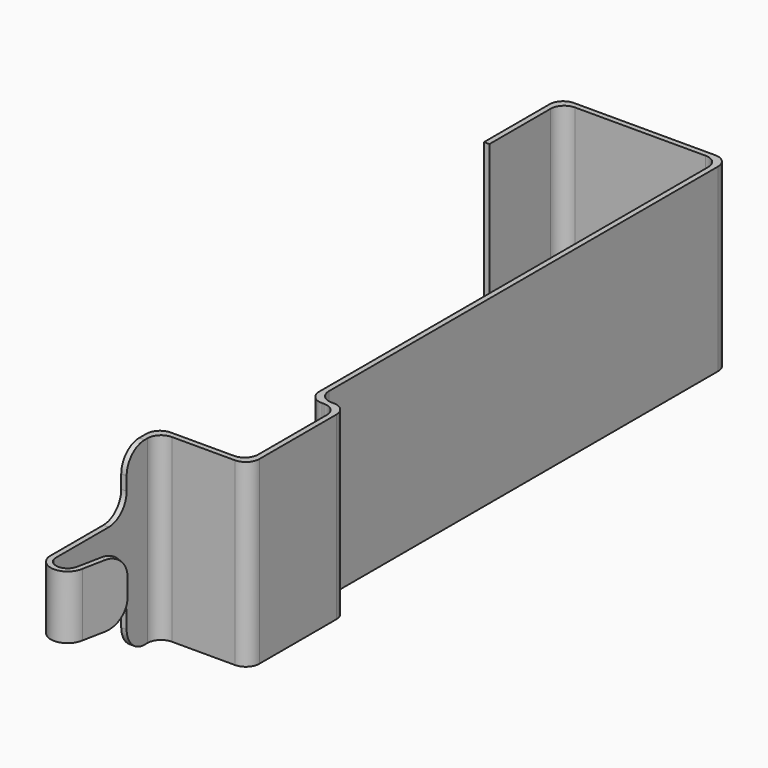
from build123d import *

# Parameters (mm, degrees)
PAD_DEPTH    = 40
PAD001_DEPTH = 7
FILLET_R     = 3
FILLET001_R  = 5


with BuildPart() as part:
    # Sketch → Pad (new body)
    with BuildSketch(Plane.XY):
        Polygon((-17.5, 114), (17.5, 114), (17.5, 0), (24, 0), (24, -25), (4, -25), (4, -35), (5.2, -35), (5.2, -26.2), (25.2, -26.2), (25.2, 1.2), (18.7, 1.2), (18.7, 115.2), (-18.7, 115.2), (-18.7, 94), (-17.5, 94), align=None)
    extrude(amount=PAD_DEPTH)

    # Sketch001 → Pad001 (join, symmetric)
    with BuildSketch(Plane.XY.offset(20)):
        with BuildLine():
            Line((4, -35), (4, -55))
            ThreePointArc((4, -55), (7.7, -58.233631), (11.4, -55))
            Line((13.4, -45), (11.4, -55))
            Line((12.292308, -44.538462), (13.4, -45))
            Line((10.2, -55), (12.292308, -44.538462))
            ThreePointArc((5.2, -55), (7.7, -57.04951), (10.2, -55))
            Line((5.2, -55), (5.2, -35))
            Line((5.2, -35), (4, -35))
        make_face()
    extrude(amount=PAD001_DEPTH, both=True)

    # Fillet
    fillet_edges = [part.edges().sort_by_distance(p)[0] for p in [
        (24, -25, 20),
        (4, -25, 20),
        (17.5, 0, 20),
        (17.5, 114, 20),
        (-17.5, 114, 20),
        (24, 0, 20),
        (25.2, -26.2, 20),
        (25.2, 1.2, 20),
        (18.7, 115.2, 20),
        (5.2, -26.2, 20),
        (-18.7, 115.2, 20),
        (18.7, 1.2, 20),
    ]]
    fillet(fillet_edges, radius=FILLET_R)

    # Fillet001
    fillet001_edges = [part.edges().sort_by_distance(p)[0] for p in [
        (4.6, -35, 0),
        (4.6, -35, 13),
        (4.6, -35, 27),
        (4.6, -35, 40),
        (12.846154, -44.769231, 27),
        (12.846154, -44.769231, 13),
    ]]
    fillet(fillet001_edges, radius=FILLET001_R)


solid = part.part
